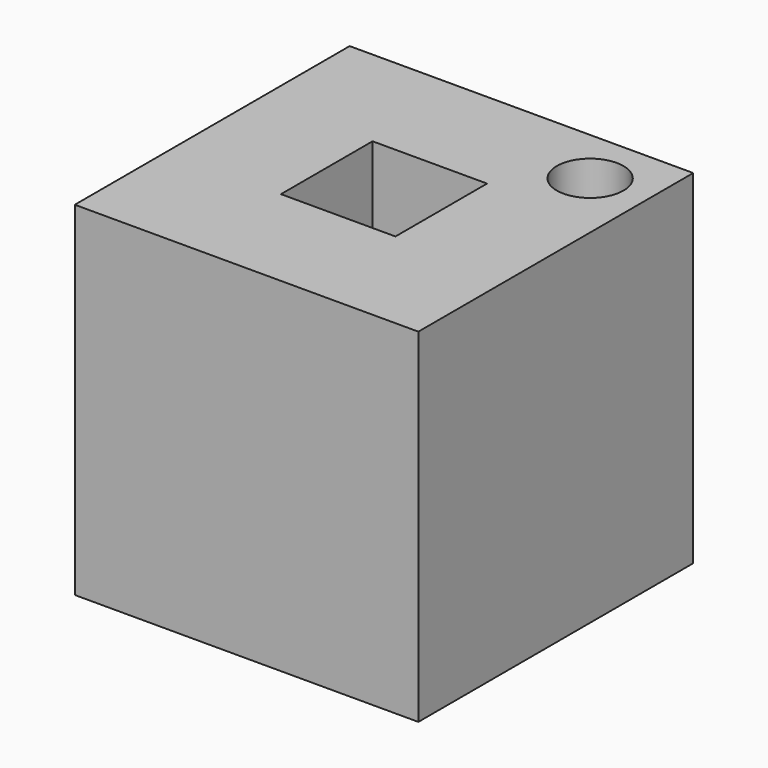
from build123d import *

# Parameters (mm, degrees)
F0_W     = 3
F0_H     = 3
F0_W_2   = 1
F0_H_2   = 1
F1_DEPTH = 3


with BuildPart() as f1:
    # F0 (on Top) → F1 (new body)
    with BuildSketch(Plane.XY):
        with Locations((1.5, 1.5)):
            Rectangle(F0_W, F0_H)
        with Locations((1.5, 1.5)):
            Rectangle(F0_W_2, F0_H_2, mode=Mode.SUBTRACT)
        with BuildLine():
            ThreePointArc((2.294295, 2.294295), (2.294295, 2.705705), (2.705705, 2.705705))
            ThreePointArc((2.705705, 2.705705), (2.768767, 2.611327), (2.790911, 2.5))
            ThreePointArc((2.790911, 2.5), (2.611327, 2.231233), (2.294295, 2.294295))
        make_face(mode=Mode.SUBTRACT)
    extrude(amount=F1_DEPTH)


solid = f1.part
